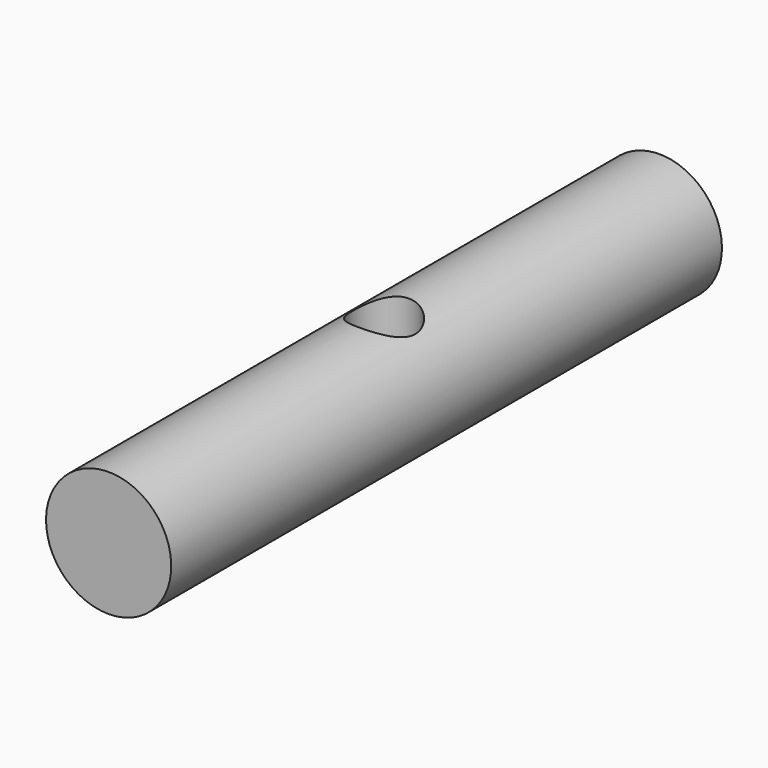
from build123d import *

# Parameters (mm, degrees)
CYLINDER008_R               = 1.35
CYLINDER008_DEPTH           = 10
CYLINDER008_PLACEMENT_ANGLE = 91
CYLINDER007_R               = 1.35
CYLINDER007_DEPTH           = 10
CYLINDER007_PITCH_ANGLE     = 90
CYLINDER006_R               = 5
CYLINDER006_DEPTH           = 20
CYLINDER006_PITCH_ANGLE     = 90
BOX001_W                    = 10
BOX001_H                    = 6
BOX001_DEPTH                = 22
CYLINDER005_R               = 10
CYLINDER005_DEPTH           = 110
CUT007_PITCH_ANGLE          = 90
CUT007_PLACEMENT_ANGLE      = -90


with BuildPart() as cylinder008:
    # Cylinder008 → Cylinder008 (new body)
    with BuildSketch(Plane.XY):
        Circle(CYLINDER008_R)
    extrude(amount=CYLINDER008_DEPTH)


with BuildPart() as cylinder008_1:
    # Cylinder008 placement: moved
    add(cylinder008.part.moved(Location((0, 0, 85))).rotate(Axis((0, 0, 85), (0, 1, 0)), CYLINDER008_PLACEMENT_ANGLE))


with BuildPart() as cylinder007:
    # Cylinder007 → Cylinder007 (new body)
    with BuildSketch(Plane.XY):
        Circle(CYLINDER007_R)
    extrude(amount=CYLINDER007_DEPTH)


with BuildPart() as cylinder007_1:
    # Cylinder007 pitch: moved
    add(cylinder007.part.rotate(Axis((0, 0, 0), (0, 1, 0)), CYLINDER007_PITCH_ANGLE))


with BuildPart() as cylinder007_2:
    # Cylinder007 placement: moved
    add(cylinder007_1.part.moved(Location((0, 0, 69))))


with BuildPart() as cylinder006:
    # Cylinder006 → Cylinder006 (new body)
    with BuildSketch(Plane.XY):
        Circle(CYLINDER006_R)
    extrude(amount=CYLINDER006_DEPTH)


with BuildPart() as cylinder006_1:
    # Cylinder006 pitch: moved
    add(cylinder006.part.rotate(Axis((0, 0, 0), (0, 1, 0)), CYLINDER006_PITCH_ANGLE))


with BuildPart() as cylinder006_2:
    # Cylinder006 placement: moved
    add(cylinder006_1.part.moved(Location((-10, 0, 77))))


with BuildPart() as cube001:
    # Box001 → Box001 (new body)
    with BuildSketch(Plane(origin=(9.54, -3, 66), x_dir=(1, 0, 0), z_dir=(0, 0, 1))):
        with Locations((5, 3)):
            Rectangle(BOX001_W, BOX001_H)
    extrude(amount=BOX001_DEPTH)


with BuildPart() as lever002:
    # Cylinder005 → Cylinder005 (new body)
    with BuildSketch(Plane.XY.offset(22)):
        Circle(CYLINDER005_R)
    extrude(amount=CYLINDER005_DEPTH)

    # Cut006: cut Cube001
    add(cube001.part, mode=Mode.SUBTRACT)

    # Cut004: cut Cylinder006
    add(cylinder006_2.part, mode=Mode.SUBTRACT)

    # Cut005: cut Cylinder007
    add(cylinder007_2.part, mode=Mode.SUBTRACT)

    # Cut007: cut Cylinder008
    add(cylinder008_1.part, mode=Mode.SUBTRACT)


with BuildPart() as lever002_1:
    # Cut007 pitch: moved
    add(lever002.part.rotate(Axis((0, 0, 0), (0, 1, 0)), CUT007_PITCH_ANGLE))


with BuildPart() as lever002_2:
    # Cut007 placement: moved
    add(lever002_1.part.moved(Location((0, 77, 0))).rotate(Axis((0, 77, 0), (0, 0, 1)), CUT007_PLACEMENT_ANGLE))


solid = lever002_2.part
